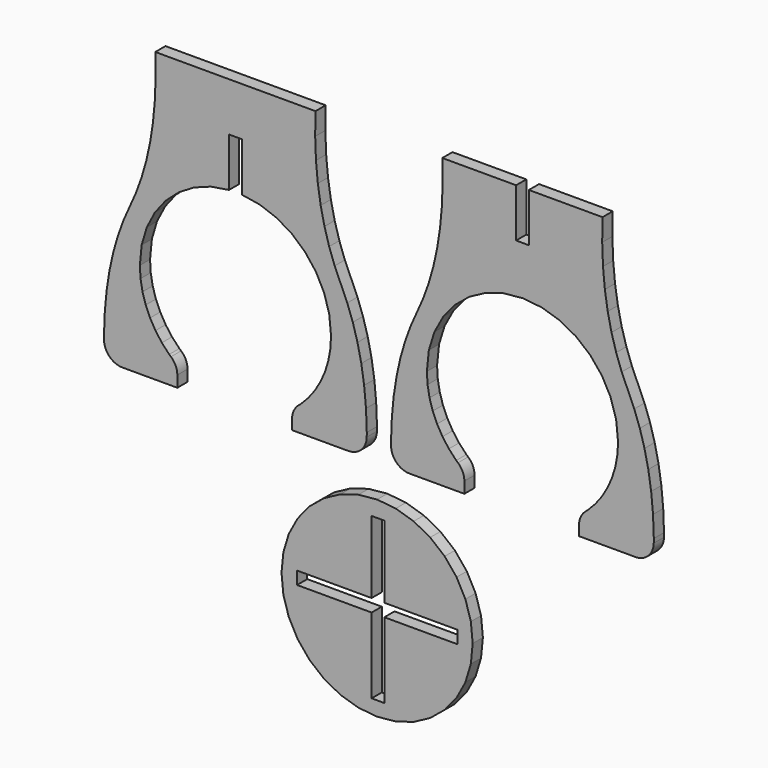
from build123d import *

# Parameters (mm, degrees)
F1_DEPTH = 200
F2_R     = 289.0380152714
F2_2_R   = 289.0380152714
F3_W     = 1169.8320388794
F3_H     = 200
F3_W_2   = 200
F3_H_2   = 1134.7459030151
F3_W_3   = 1150.1679611206
F3_H_3   = 1185.2540969849
F4_DEPTH = 810


with BuildPart() as f1:
    # F0 (on Front) → F1 (new body)
    with BuildSketch(Plane.XZ):
        Polygon((-5774.4405, -2416.677), (-5472.1375, -2386.202), (-5169.8345, -2416.677), (-4888.2695, -2504.079), (-4633.4725, -2642.378), (-4411.4765, -2825.542), (-4228.3135, -3047.538), (-4090.0145, -3302.334), (-4002.6125, -3583.9), (-3972.1375, -3886.202), (-3983.2125, -4069.374), (-4015.5715, -4245.972), (-4067.9195, -4414.704), (-4138.9585, -4574.275), (-4227.3935, -4723.393), (-4331.9275, -4860.765), (-4451.2635, -4985.095), (-4584.1055, -5095.092), (-4584.1055, -5386.561), (-3416.1255, -5386.561), (-3411.1045, -5036.821), (-3423.6085, -4708.361), (-3452.7335, -4400.085), (-3497.5785, -4110.897), (-3557.2405, -3839.702), (-3630.8185, -3585.404), (-3717.4075, -3346.907), (-3816.1075, -3123.115), (-3914.8075, -2899.323), (-4001.3965, -2660.826), (-4074.9745, -2406.528), (-4134.6365, -2135.333), (-4179.4815, -1846.145), (-4208.6065, -1537.869), (-4221.1105, -1209.409), (-4216.0895, -859.669), (-5372.1215, -859.669), (-5372.1215, -1622.941), (-5572.1215, -1622.941), (-5572.1215, -859.669), (-6730.1535, -859.669), (-6725.1325, -1209.409), (-6737.6365, -1537.869), (-6766.7615, -1846.145), (-6811.6065, -2135.333), (-6871.2685, -2406.528), (-6944.8465, -2660.826), (-7031.4355, -2899.323), (-7130.1355, -3123.115), (-7228.8355, -3346.907), (-7315.4245, -3585.404), (-7389.0025, -3839.702), (-7448.6645, -4110.897), (-7493.5095, -4400.085), (-7522.6345, -4708.361), (-7535.1385, -5036.821), (-7530.1175, -5386.561), (-6384.1055, -5386.561), (-6384.1055, -5077.093), (-6512.0085, -4967.112), (-6626.7975, -4843.6), (-6727.2585, -4707.769), (-6812.1765, -4560.83), (-6880.3375, -4403.993), (-6930.5285, -4238.468), (-6961.5325, -4065.468), (-6972.1375, -3886.202), (-6941.6625, -3583.9), (-6854.2605, -3302.334), (-6715.9615, -3047.538), (-6532.7975, -2825.542), (-6310.8025, -2642.378), (-6056.0055, -2504.079), align=None)
    extrude(amount=F1_DEPTH)

    # F2#2
    f2_2_edges = [f1.edges().sort_by_distance(p)[0] for p in [
        (-7530.1175, -100, -5386.561),
        (-3416.1255, -100, -5386.561),
        (-4584.1055, -100, -5095.092),
        (-6384.1055, -100, -5077.093),
    ]]
    fillet(f2_2_edges, radius=F2_2_R)


with BuildPart() as f1b:
    # F0 (on Front) → F1, piece 2 (new body)
    with BuildSketch(Plane.XZ):
        Polygon((-9877.4035, -1622.93), (-9877.4035, -2389.536), (-9592.6095, -2435.87), (-9328.4805, -2533.081), (-9090.3515, -2675.837), (-8883.5555, -2858.806), (-8713.4285, -3076.659), (-8585.3045, -3324.063), (-8504.5175, -3595.688), (-8476.4035, -3886.202), (-8487.4785, -4069.374), (-8519.8375, -4245.972), (-8572.1855, -4414.704), (-8643.2255, -4574.275), (-8731.6595, -4723.393), (-8836.1935, -4860.765), (-8955.5295, -4985.095), (-9088.3715, -5095.092), (-9088.3715, -5386.561), (-7920.3915, -5386.561), (-7915.3705, -5036.821), (-7927.8745, -4708.361), (-7956.9995, -4400.085), (-8001.8445, -4110.897), (-8061.5065, -3839.702), (-8135.0845, -3585.404), (-8221.6735, -3346.907), (-8320.3735, -3123.115), (-8419.0735, -2899.323), (-8505.6625, -2660.826), (-8579.2405, -2406.528), (-8638.9025, -2135.333), (-8683.7475, -1846.145), (-8712.8725, -1537.869), (-8725.3765, -1209.409), (-8720.3555, -859.669), (-11234.4195, -859.669), (-11229.3985, -1209.409), (-11241.9025, -1537.869), (-11271.0275, -1846.145), (-11315.8725, -2135.333), (-11375.5345, -2406.528), (-11449.1125, -2660.826), (-11535.7015, -2899.323), (-11634.4015, -3123.115), (-11733.1015, -3346.907), (-11819.6905, -3585.404), (-11893.2685, -3839.702), (-11952.9305, -4110.897), (-11997.7755, -4400.085), (-12026.9005, -4708.361), (-12039.4045, -5036.821), (-12034.3835, -5386.561), (-10888.3715, -5386.561), (-10888.3715, -5077.093), (-11016.2745, -4967.112), (-11131.0635, -4843.6), (-11231.5245, -4707.769), (-11316.4425, -4560.83), (-11384.6035, -4403.993), (-11434.7945, -4238.468), (-11465.7985, -4065.468), (-11476.4035, -3886.202), (-11448.3365, -3595.928), (-11367.6825, -3324.506), (-11239.7625, -3077.254), (-11069.8975, -2859.49), (-10863.4085, -2676.531), (-10625.6155, -2533.696), (-10361.8405, -2436.3), (-10077.4035, -2389.663), (-10077.4035, -1622.93), align=None)
    extrude(amount=F1_DEPTH)

    # F2
    f2_edges = [f1b.edges().sort_by_distance(p)[0] for p in [
        (-12034.3835, -100, -5386.561),
        (-7920.3915, -100, -5386.561),
        (-9088.3715, -100, -5095.092),
        (-10888.3715, -100, -5077.093),
    ]]
    fillet(f2_edges, radius=F2_R)


with BuildPart() as f1c:
    # F0 (on Front) → F1, piece 3 (new body)
    with BuildSketch(Plane.XZ):
        Polygon((-7461.05802, -5939.53508), (-7753.6935, -5910.713), (-8046.32898, -5939.53508), (-8327.71865, -6024.8937), (-8587.04885, -6163.50858), (-8814.35367, -6350.05283), (-9000.89792, -6577.35765), (-9139.5128, -6836.68785), (-9224.87142, -7118.07752), (-9253.6935, -7410.713), (-9224.87142, -7703.34848), (-9139.5128, -7984.73815), (-9000.89792, -8244.06835), (-8814.35367, -8471.37317), (-8587.04885, -8657.91742), (-8327.71865, -8796.5323), (-8046.32898, -8881.89092), (-7753.6935, -8910.713), (-7461.05802, -8881.89092), (-7179.66835, -8796.5323), (-6920.33815, -8657.91742), (-6693.03333, -8471.37317), (-6506.48908, -8244.06835), (-6367.8742, -7984.73815), (-6282.51558, -7703.34848), (-6253.6935, -7410.713), (-6282.51558, -7118.07752), (-6367.8742, -6836.68785), (-6506.48908, -6577.35765), (-6693.03333, -6350.05283), (-6920.33815, -6163.50858), (-7179.66835, -6024.8937), align=None)
    extrude(amount=F1_DEPTH)

    # F3 (on Front) → F4 (cut)
    with BuildSketch(Plane.XZ):
        with Locations((-8424.9152183533, -7400.0047683716)):
            Rectangle(F3_W, F3_H)
        with Locations((-7739.9991989136, -6732.631816864)):
            Rectangle(F3_W_2, F3_H_2)
        with Locations((-7739.9991989136, -7400.0047683716)):
            Rectangle(F3_W_2, F3_H)
        with Locations((-7064.9152183533, -7400.0047683716)):
            Rectangle(F3_W_3, F3_H)
        with Locations((-7739.9991989136, -8092.631816864)):
            Rectangle(F3_W_2, F3_H_3)
    extrude(amount=F4_DEPTH, mode=Mode.SUBTRACT)


solid = Compound([f1.part, f1b.part, f1c.part])
